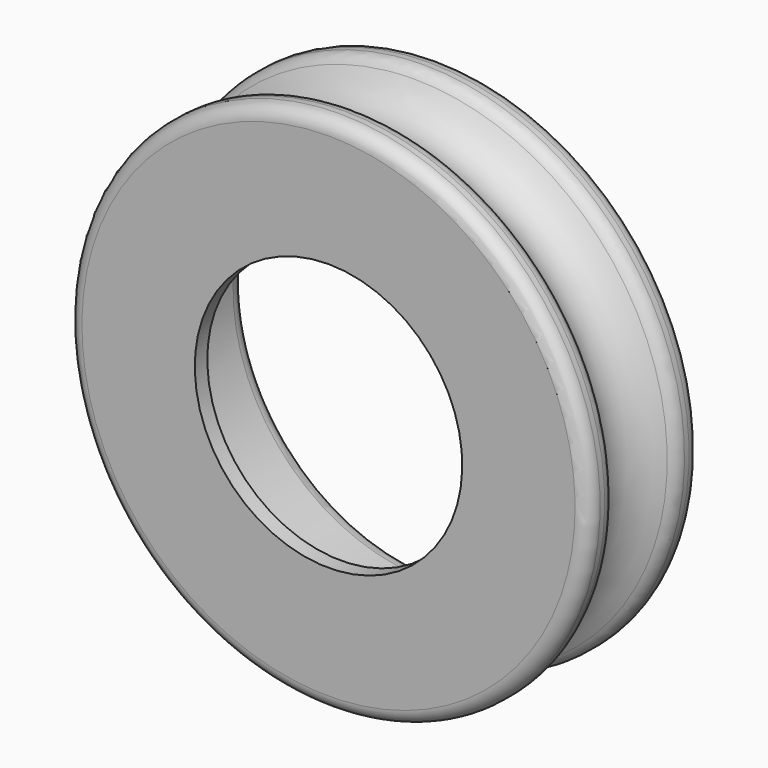
from build123d import *

# Parameters (mm, degrees)
F0_W = 0.9
F0_H = 3.4
F2_R = 0.8
F3_R = 1


with BuildPart() as f1:
    # F0 (on Right) → F1 (revolve)
    with BuildSketch(Plane.YZ):
        with BuildLine():
            Line((0, 1), (4, 1))
            Line((4, 1), (4, 2.9))
            Line((4, 2.9), (2.3544265014, 2.9))
            add(Edge.make_bspline(
                [(0, 1), (1.6531079691, 1), (2.3544265014, 2.9)],
                knots=[0, 0, 0, 1.1326711984, 1.1326711984, 1.1326711984], degree=2, weights=[1, 0.8438727464, 1]))
        make_face()
        Polygon((-3.1, -1), (4, -1), (4, 1), (0, 1), (-4, 1), (-4, -1), align=None)
        with BuildLine():
            Line((-4, 1), (0, 1))
            add(Edge.make_bspline(
                [(-2.3544265014, 2.9), (-1.6531079691, 1), (0, 1)],
                knots=[5.1505141088, 5.1505141088, 5.1505141088, 6.2831853072, 6.2831853072, 6.2831853072], degree=2, weights=[1, 0.8438727464, 1]))
            Line((-2.3544265014, 2.9), (-4, 2.9))
            Line((-4, 2.9), (-4, 1))
        make_face()
        with Locations((-3.55, -2.7)):
            Rectangle(F0_W, F0_H)
    revolve(axis=Axis((0, 0, -12.1), (0, 1, 0)))

    # F2
    f2_edges = [f1.edges().sort_by_distance(p)[0] for p in [
        (0, 4, -27.1),
        (0, -4, -27.1),
        (0, 2.354427, -27.1),
        (0, 0, 1),
        (0, -2.354427, -27.1),
    ]]
    fillet(f2_edges, radius=F2_R)

    # F3
    f3_edges = [f1.edges().sort_by_distance(p)[0] for p in [
        (0, 4, -23.2),
    ]]
    fillet(f3_edges, radius=F3_R)


solid = f1.part
